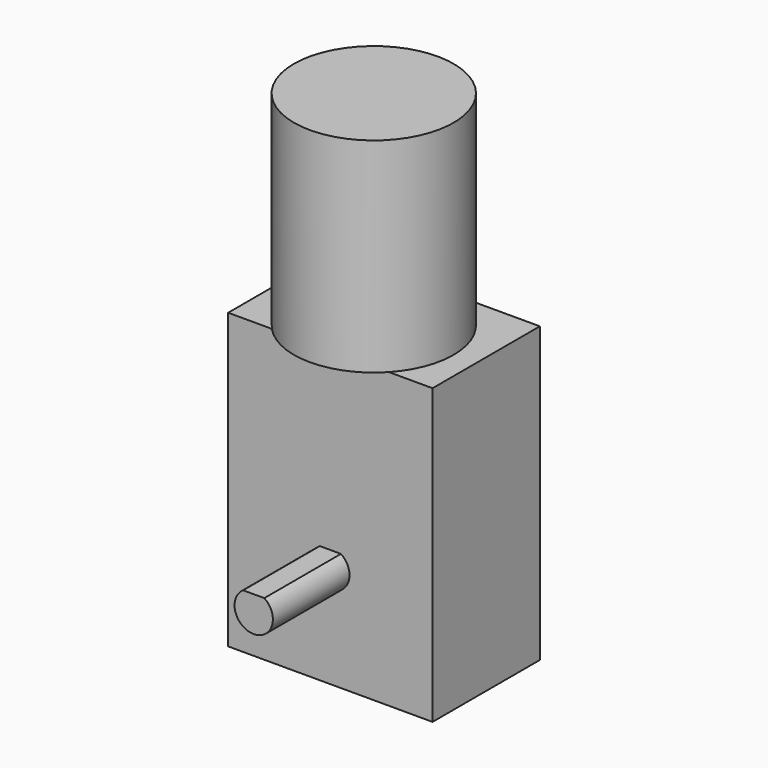
from build123d import *

# Parameters (mm, degrees)
SKETCH161_W             = 46
SKETCH161_H             = 32
PAD104_DEPTH            = 21
SKETCH162_R             = 12.5
PAD105_DEPTH            = 32
PAD106_DEPTH            = 15
PAD107_DEPTH            = 15
BODY085_PITCH_ANGLE     = -90
BODY085_PLACEMENT_ANGLE = 90


with BuildPart() as part:
    # Sketch161 → Pad104 (new body)
    with BuildSketch(Plane.XY):
        with Locations((7, 0)):
            Rectangle(SKETCH161_W, SKETCH161_H)
    extrude(amount=PAD104_DEPTH)

    # Sketch162 (on Face2 of Pad104) → Pad105 (join)
    with BuildSketch(Plane.YZ.offset(30)):
        with Locations((0, 12.5)):
            Circle(SKETCH162_R)
    extrude(amount=PAD105_DEPTH)

    # Sketch163 (on Face4 of Pad105) → Pad106 (join)
    with BuildSketch(Plane(origin=(0, 0, 0), x_dir=(1, 0, 0), z_dir=(0, 0, -1))):
        with BuildLine():
            ThreePointArc((2.5, 1.658312), (-3, 0), (2.5, -1.658312))
            Line((2.5, 1.658312), (2.5, -1.658312))
        make_face()
    extrude(amount=PAD106_DEPTH)

    # Sketch164 (on Face5 of Pad106) → Pad107 (join)
    with BuildSketch(Plane.XY.offset(21)):
        with BuildLine():
            ThreePointArc((2.5, 1.658312), (-3, 0), (2.5, -1.658312))
            Line((2.5, 1.658312), (2.5, -1.658312))
        make_face()
    extrude(amount=PAD107_DEPTH)


with BuildPart() as part_1:
    # Body085 pitch: moved
    add(part.part.rotate(Axis((0, 0, 0), (0, 1, 0)), BODY085_PITCH_ANGLE))


with BuildPart() as part_2:
    # Body085 placement: moved
    add(part_1.part.moved(Location((0, -24, 0))).rotate(Axis((0, -24, 0), (0, 0, 1)), BODY085_PLACEMENT_ANGLE))


solid = part_2.part
